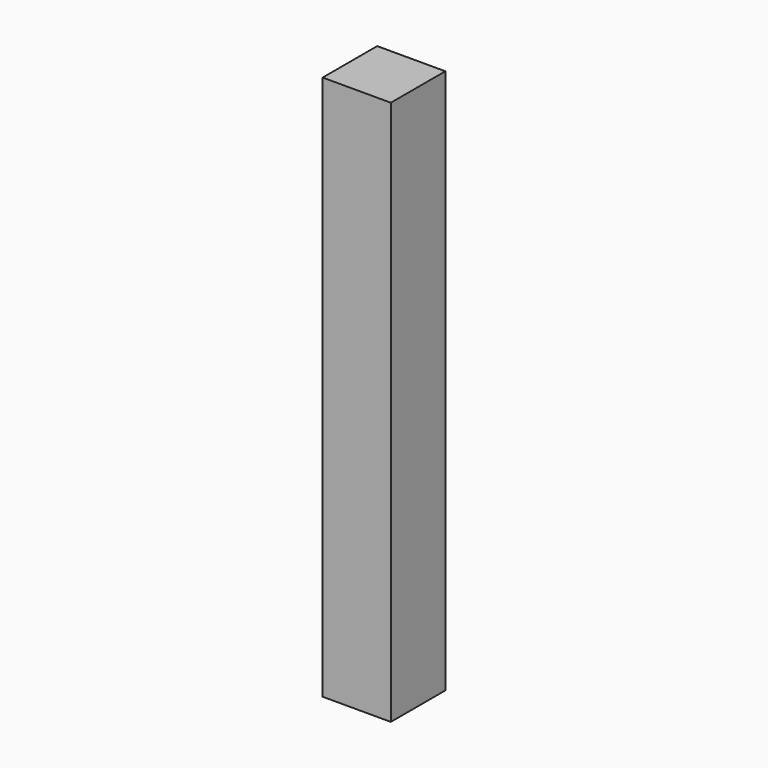
from build123d import *

# Parameters (mm, degrees)
F1_DEPTH = 25.4
F3_W     = 25.4
F3_H     = 203.2
F4_DEPTH = 25.4


with BuildPart() as f1:
    # F0 (on Right) → F1 (new body)
    with BuildSketch(Plane.YZ):
        Polygon((93.4831788659, 86.7940613191), (-58.9168211341, 86.7940613191), (-58.9168211341, -65.6059386809), (93.4831788659, -65.6059386809), (93.4831788659, 22.3822435506), align=None)
    extrude(amount=F1_DEPTH)


with BuildPart() as f4:
    # F3 (on Front) → F4 (new body)
    with BuildSketch(Plane.XZ):
        with Locations((-85.7546515763, 9.2563959739)):
            Rectangle(F3_W, F3_H)
    extrude(amount=F4_DEPTH)


solid = f4.part
